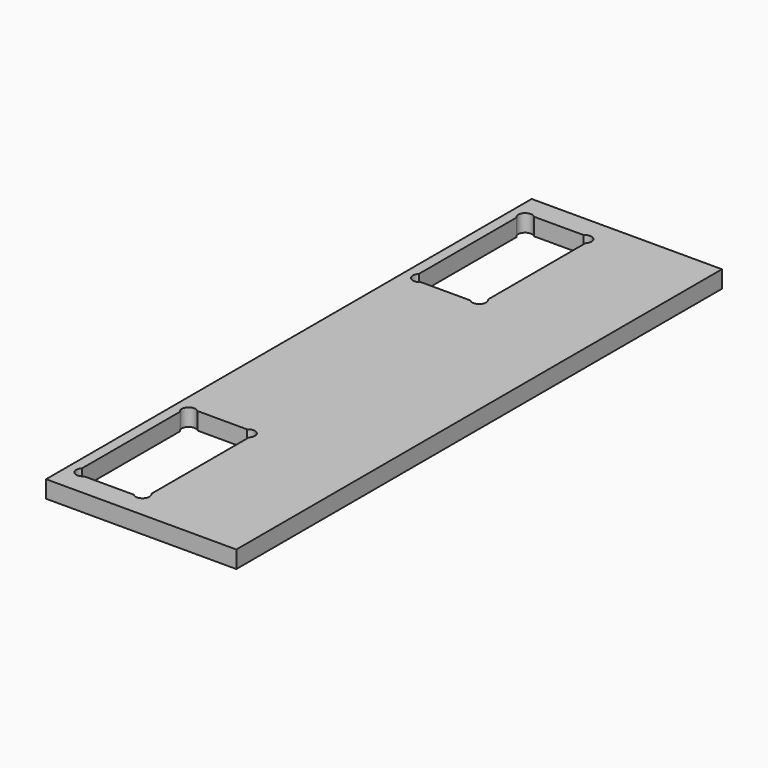
from build123d import *

# Parameters (mm, degrees)
F0_W     = 55.175
F0_H     = 176
F1_DEPTH = 5


with BuildPart() as f1:
    # F0 (on Top) → F1 (new body)
    with BuildSketch(Plane.XY):
        Rectangle(F0_W, F0_H)
        with BuildLine():
            ThreePointArc((-24.5625, -43.303427), (-24.5625, -40.475), (-21.734073, -40.475))
            Line((-21.734073, -40.475), (-7.340927, -40.475))
            ThreePointArc((-7.340927, -40.475), (-4.5125, -40.475), (-4.5125, -43.303427))
            Line((-4.5125, -43.303427), (-4.5125, -55.775))
            Line((-4.5125, -55.775), (-4.5125, -78.696573))
            ThreePointArc((-4.5125, -78.696573), (-4.5125, -81.525), (-7.340927, -81.525))
            Line((-7.340927, -81.525), (-21.734073, -81.525))
            ThreePointArc((-21.734073, -81.525), (-24.5625, -81.525), (-24.5625, -78.696573))
            Line((-24.5625, -78.696573), (-24.5625, -55.775))
            Line((-24.5625, -55.775), (-24.5625, -43.303427))
        make_face(mode=Mode.SUBTRACT)
        with BuildLine():
            Line((-24.5625, 43.303427), (-24.5625, 55.775))
            Line((-24.5625, 55.775), (-24.5625, 78.696573))
            ThreePointArc((-24.5625, 78.696573), (-24.5625, 81.525), (-21.734073, 81.525))
            Line((-21.734073, 81.525), (-7.340927, 81.525))
            ThreePointArc((-7.340927, 81.525), (-4.5125, 81.525), (-4.5125, 78.696573))
            Line((-4.5125, 78.696573), (-4.5125, 55.775))
            Line((-4.5125, 55.775), (-4.5125, 43.303427))
            ThreePointArc((-4.5125, 43.303427), (-4.5125, 40.475), (-7.340927, 40.475))
            Line((-7.340927, 40.475), (-21.734073, 40.475))
            ThreePointArc((-21.734073, 40.475), (-24.5625, 40.475), (-24.5625, 43.303427))
        make_face(mode=Mode.SUBTRACT)
    extrude(amount=F1_DEPTH)


solid = f1.part
